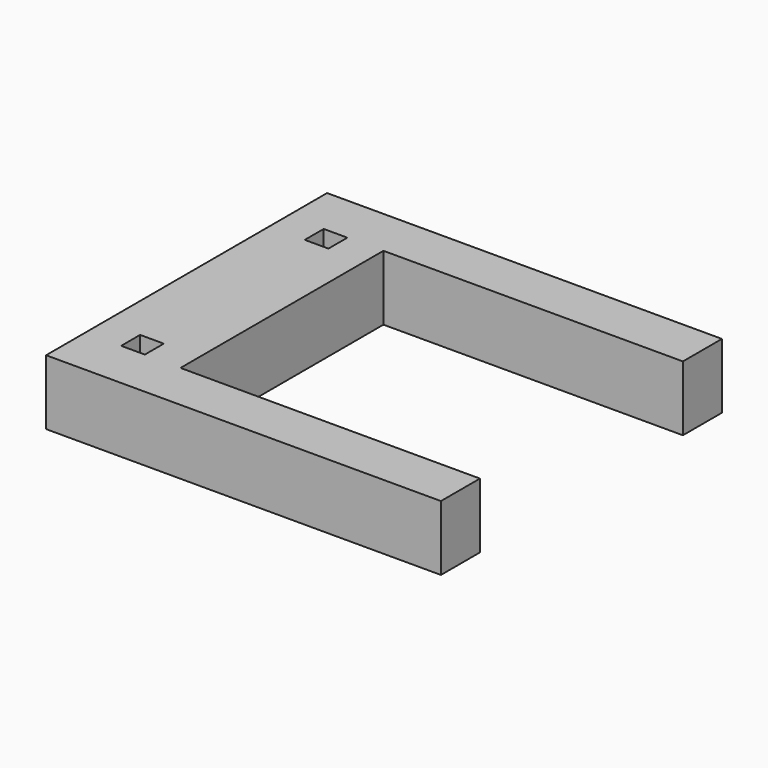
from build123d import *

# Parameters (mm, degrees)
F0_W     = 4.6228
F0_H     = 4.6228
F0_W_2   = 58.467754
F0_H_2   = 9.525
F1_DEPTH = 12.7


with BuildPart() as f1:
    # F0 (on Top) → F1 (new body)
    with BuildSketch(Plane.XY):
        Polygon((9.310142, 34.29), (-9.310142, 34.29), (-9.310142, -34.29), (9.310142, -34.29), (9.310142, -24.765), (9.310142, 0), (9.310142, 24.765), align=None)
        with Locations((0, -22.4028)):
            Rectangle(F0_W, F0_H, mode=Mode.SUBTRACT)
        with Locations((0, 22.4028)):
            Rectangle(F0_W, F0_H, mode=Mode.SUBTRACT)
        with Locations((38.544019, 29.5275)):
            Rectangle(F0_W_2, F0_H_2)
        with Locations((38.544019, -29.5275)):
            Rectangle(F0_W_2, F0_H_2)
    extrude(amount=F1_DEPTH)


solid = f1.part
